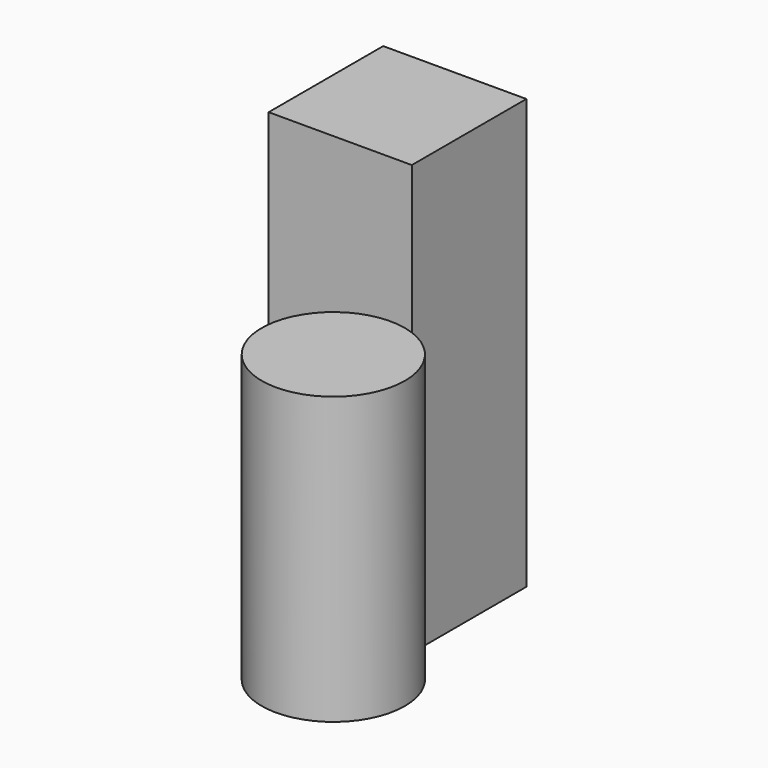
from build123d import *

# Parameters (mm, degrees)
F0_R     = 25.4
F1_DEPTH = 101.6
F2_W     = 50.8
F2_H     = 50.8
F3_DEPTH = 152.4


with BuildPart() as f1:
    # F0 (on Top) → F1 (new body)
    with BuildSketch(Plane.XY):
        Circle(F0_R)
    extrude(amount=F1_DEPTH)


with BuildPart() as f3:
    # F2 (on Top) → F3 (new body)
    with BuildSketch(Plane.XY):
        with Locations((-18.422578, 51.497136)):
            Rectangle(F2_W, F2_H)
    extrude(amount=F3_DEPTH)


solid = Compound([f1.part, f3.part])
